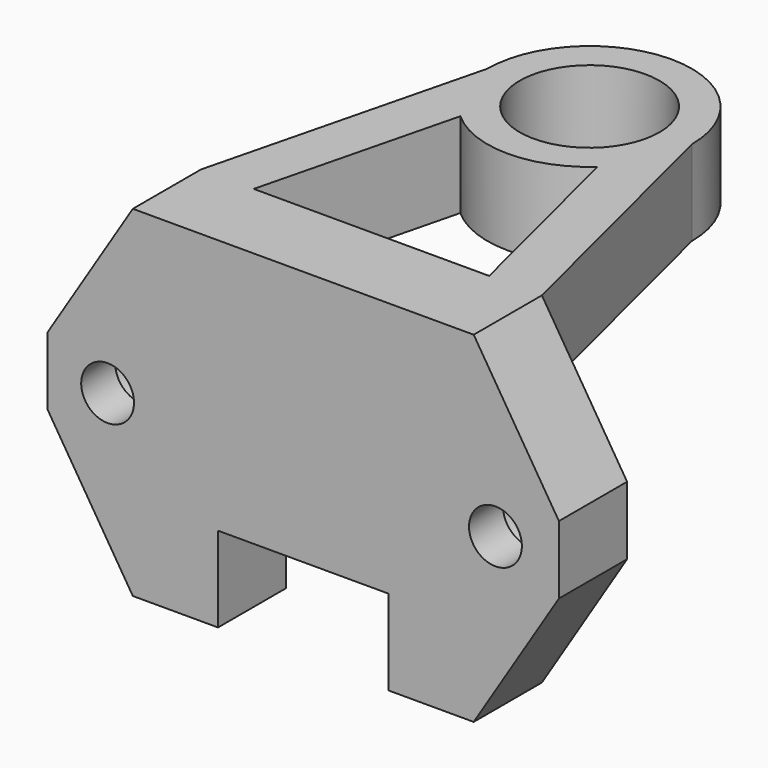
from build123d import *

# Parameters (mm, degrees)
F0_R     = 4.1
F1_DEPTH = 5
F2_W     = 30
F2_H     = 20
F3_DEPTH = 5
F4_R     = 1.55
F4_W     = 10
F4_H     = 5
F5_DEPTH = 5
F6_R     = 2.6
F7_DEPTH = 2.5


with BuildPart() as f1:
    # F0 (on Top) → F1 (new body)
    with BuildSketch(Plane.XY):
        with BuildLine():
            Line((0, 5), (0, 0))
            Line((0, 0), (30, 0))
            Line((30, 0), (30, 5))
            Line((30, 5), (25, 5))
            Line((25, 5), (21, 21))
            ThreePointArc((21, 21), (15, 27), (9, 21))
            Line((9, 21), (5, 5))
            Line((5, 5), (0, 5))
        make_face()
        with BuildLine():
            Line((8.092329, 5), (10.979011, 16.546726))
            ThreePointArc((10.979011, 16.546726), (15, 15), (19.020989, 16.546726))
            Line((19.020989, 16.546726), (21.907671, 5))
            Line((21.907671, 5), (8.092329, 5))
        make_face(mode=Mode.SUBTRACT)
        with Locations((15, 21)):
            Circle(F0_R, mode=Mode.SUBTRACT)
    extrude(amount=F1_DEPTH)

    # F2 (on face) → F3 (join)
    with BuildSketch(Plane.XZ):
        with Locations((15, -5)):
            Rectangle(F2_W, F2_H)
    extrude(amount=-F3_DEPTH)

    # F4 (on face) → F5 (cut)
    with BuildSketch(Plane(origin=(0, 5, 0), x_dir=(-1, 0, 0), z_dir=(0, 1, 0))):
        with Locations((-26.27668, -5)):
            Circle(F4_R)
        with Locations((-3.519477, -5)):
            Circle(F4_R)
        Polygon((-30, -3), (-25, 5), (-30, 5), align=None)
        Polygon((0, -3), (0, 5), (-5, 5), align=None)
        Polygon((-30, -15), (-25, -15), (-30, -7), align=None)
        Polygon((-5, -15), (0, -15), (0, -7), align=None)
        with Locations((-15, -12.5)):
            Rectangle(F4_W, F4_H)
    extrude(amount=-F5_DEPTH, mode=Mode.SUBTRACT)

    # F6 (on face) → F7 (cut)
    with BuildSketch(Plane(origin=(0, 5, 0), x_dir=(-1, 0, 0), z_dir=(0, 1, 0))):
        with Locations((-26.27668, -5)):
            Circle(F6_R)
        with Locations((-3.519477, -5)):
            Circle(F6_R)
    extrude(amount=-F7_DEPTH, mode=Mode.SUBTRACT)


solid = f1.part
